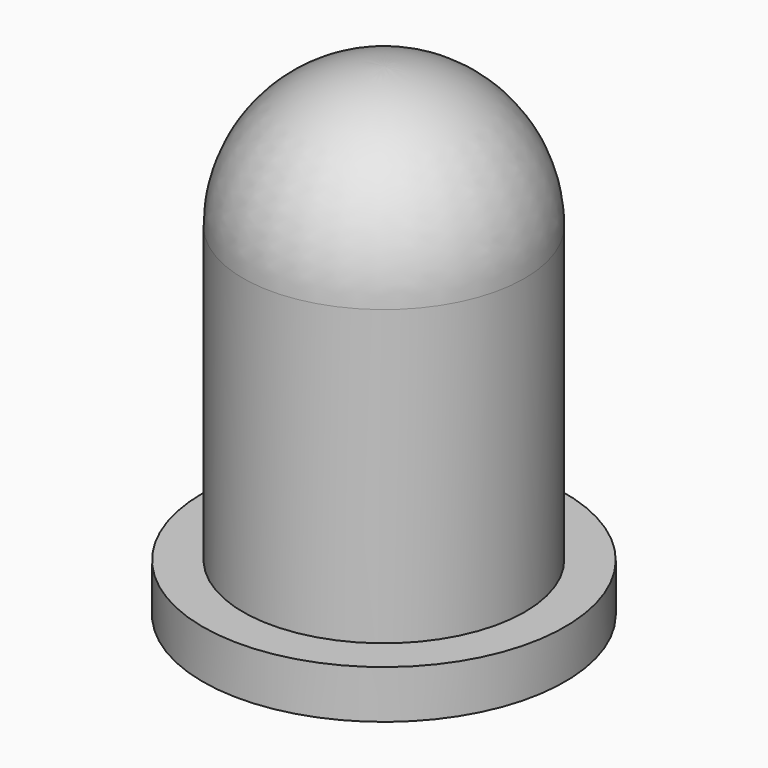
from build123d import *


with BuildPart() as f1:
    # F0 (on Front) → F1 (revolve)
    with BuildSketch(Plane.XZ):
        with BuildLine():
            Line((-4.5, 1.2), (-4.5, 0))
            Line((-4.5, 0), (-2.25, 0))
            Line((-2.25, 0), (-2.25, 6.670383))
            ThreePointArc((-2.25, 6.670383), (-2.618768, 9.745815), (0, 11.4))
            Line((0, 11.4), (0, 12))
            ThreePointArc((0, 12), (-2.474874, 10.974874), (-3.5, 8.5))
            Line((-3.5, 8.5), (-3.5, 1.2))
            Line((-3.5, 1.2), (-4.5, 1.2))
        make_face()
    revolve(axis=Axis((0, 0, 11.7), (0, 0, -1)))


solid = f1.part
